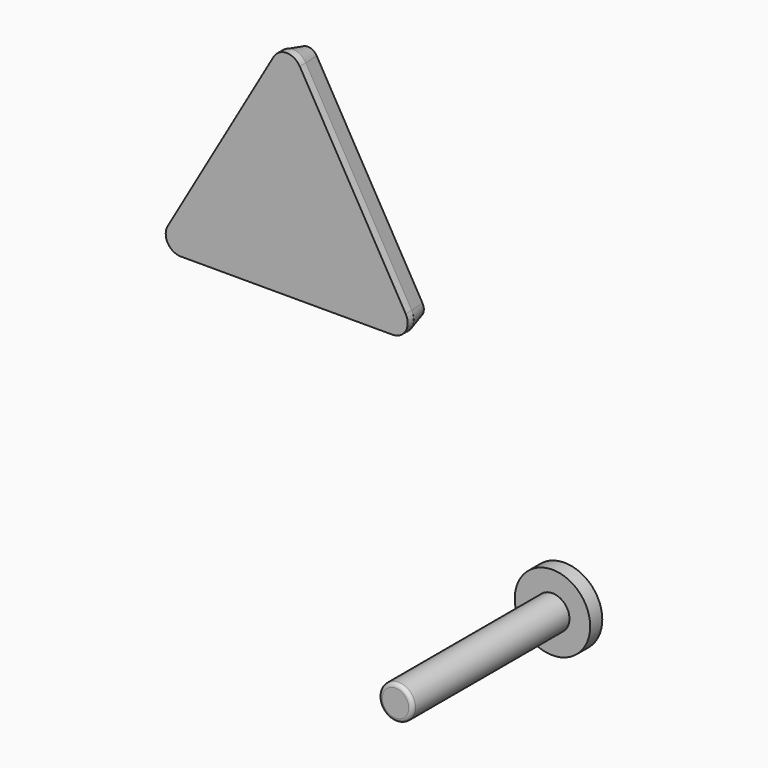
from build123d import *

# Parameters (mm, degrees)
F0_R     = 2.25
F1_DEPTH = 28
F0_R_2   = 5
F2_DEPTH = 2
F3_R     = 0.5
F4_R     = 5.25
F5_DEPTH = 2.5
F5_TAPER = 15
F7_DEPTH = 1


with BuildPart() as f1:
    # F0 (on Front) → F1 (new body)
    with BuildSketch(Plane.XZ):
        Circle(F0_R)
    extrude(amount=F1_DEPTH)

    # F0 (on Front) → F2 (join)
    with BuildSketch(Plane.XZ):
        Circle(F0_R_2)
        Circle(F0_R, mode=Mode.SUBTRACT)
    extrude(amount=F2_DEPTH)

    # F3
    f3_edges = [f1.edges().sort_by_distance(p)[0] for p in [
        (-2.25, -28, 0),
    ]]
    fillet(f3_edges, radius=F3_R)


with BuildPart() as f5:
    # F4 (on Front) → F5 (new body)
    with BuildSketch(Plane.XZ):
        with BuildLine():
            Line((-20.2506759399, 27.8372983187), (-34.2865743248, 52.1481874512))
            ThreePointArc((-34.2865743248, 52.1481874512), (-36.0186251323, 53.1481874512), (-37.7506759399, 52.1481874512))
            Line((-37.7506759399, 52.1481874512), (-51.7865743248, 27.8372983187))
            ThreePointArc((-51.7865743248, 27.8372983187), (-51.7865743248, 25.8372983187), (-50.0545235172, 24.8372983187))
            Line((-50.0545235172, 24.8372983187), (-21.9827267475, 24.8372983187))
            ThreePointArc((-21.9827267475, 24.8372983187), (-20.2506759399, 25.8372983187), (-20.2506759399, 27.8372983187))
        make_face()
        with Locations((-36.0186251323, 34.9409280296)):
            Circle(F4_R, mode=Mode.SUBTRACT)
    extrude(amount=-F5_DEPTH, taper=F5_TAPER)

    # F6 (on Front) → F7 (join)
    with BuildSketch(Plane.XZ):
        with BuildLine():
            ThreePointArc((-34.2938764173, 52.1608777881), (-36.0259272249, 53.1608777881), (-37.7579780324, 52.1608777881))
            Line((-37.7579780324, 52.1608777881), (-51.7938764173, 27.8499886557))
            ThreePointArc((-51.7938764173, 27.8499886557), (-51.7938764173, 25.8499886557), (-50.0618256097, 24.8499886557))
            Line((-50.0618256097, 24.8499886557), (-21.99002884, 24.8499886557))
            ThreePointArc((-21.99002884, 24.8499886557), (-20.2579780324, 25.8499886557), (-20.2579780324, 27.8499886557))
            Line((-20.2579780324, 27.8499886557), (-34.2938764173, 52.1608777881))
        make_face()
    extrude(amount=F7_DEPTH)


solid = Compound([f1.part, f5.part])
